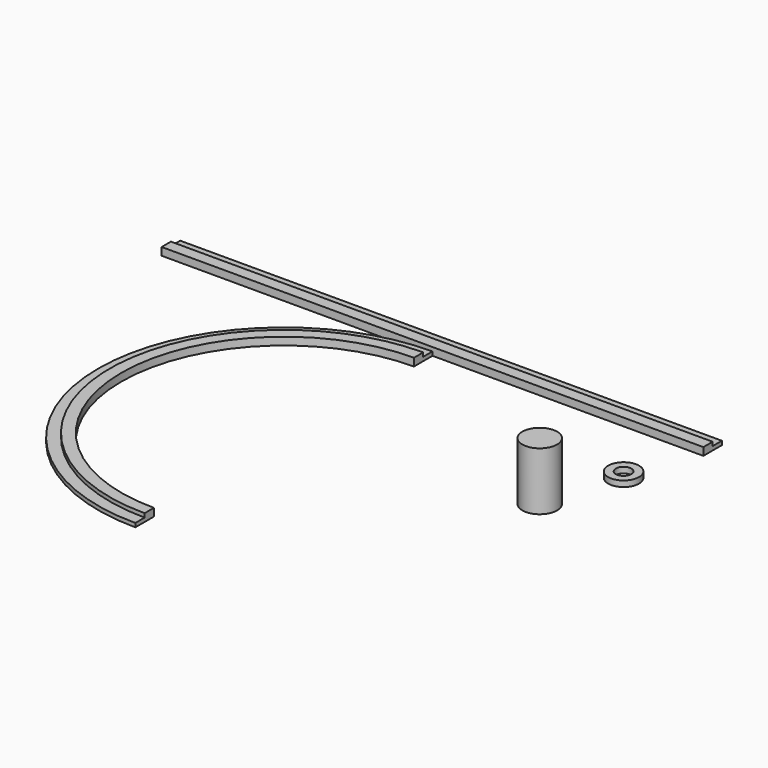
from build123d import *

# Parameters (mm, degrees)
F1_DEPTH = 2
F0_W     = 140
F0_H     = 3
F2_DEPTH = 1
F0_R     = 4
F0_R_2   = 2
F3_DEPTH = 1.5
F0_R_3   = 4.5
F0_R_4   = 3.5
F0_R_5   = 1.5
F4_DEPTH = 15
F5_DEPTH = 10
F6_DEPTH = 4


with BuildPart() as f1:
    # F0 (on Top) → F1 (new body)
    with BuildSketch(Plane.XY):
        Polygon((-70, 3), (-70, 0), (0, 0), (70, 0), (70, 3), align=None)
    extrude(amount=F1_DEPTH)



with BuildPart() as f1b:
    # F0 (on Top) → F1, piece 2 (new body)
    with BuildSketch(Plane.XY):
        with BuildLine():
            Line((0, -6), (0, -3))
            ThreePointArc((0, -3), (-45, -48), (0, -93))
            Line((0, -93), (0, -90))
            ThreePointArc((0, -90), (-42, -48), (0, -6))
        make_face()
    extrude(amount=F1_DEPTH)


with BuildPart() as f1_1:
    add(f1.part)

    add(f1b.part)  # F2 merges F1b
    # F0 (on Top) → F2 (join)
    with BuildSketch(Plane.XY):
        with Locations((0, 4.5)):
            Rectangle(F0_W, F0_H)
        with BuildLine():
            Line((0, -3), (0, 0))
            ThreePointArc((0, 0), (-48, -48), (0, -96))
            Line((0, -96), (0, -93))
            ThreePointArc((0, -93), (-45, -48), (0, -3))
        make_face()
    extrude(amount=F2_DEPTH)


with BuildPart() as f3:
    # F0 (on Top) → F3 (new body)
    with BuildSketch(Plane.XY):
        with Locations((63.45012784, -17.581872642)):
            Circle(F0_R)
        with Locations((63.45012784, -17.581872642)):
            Circle(F0_R_2, mode=Mode.SUBTRACT)
    extrude(amount=F3_DEPTH)


with BuildPart() as f4:
    # F0 (on Top) → F4 (new body)
    with BuildSketch(Plane.XY):
        with Locations((57.3580823839, -37.0480269194)):
            Circle(F0_R_3)
        with Locations((57.3580823839, -37.0480269194)):
            Circle(F0_R_4, mode=Mode.SUBTRACT)
        with Locations((57.3580823839, -37.0480269194)):
            Circle(F0_R_4)
        with Locations((57.3580823839, -37.0480269194)):
            Circle(F0_R_5, mode=Mode.SUBTRACT)
        with Locations((57.3580823839, -37.0480269194)):
            Circle(F0_R_5)
    extrude(amount=F4_DEPTH)

    # F0 (on Top) → F5 (cut)
    with BuildSketch(Plane.XY):
        with Locations((57.3580823839, -37.0480269194)):
            Circle(F0_R_5)
    extrude(amount=F5_DEPTH, mode=Mode.SUBTRACT)

    # F0 (on Top) → F6 (cut)
    with BuildSketch(Plane.XY):
        with Locations((57.3580823839, -37.0480269194)):
            Circle(F0_R_4)
        with Locations((57.3580823839, -37.0480269194)):
            Circle(F0_R_5, mode=Mode.SUBTRACT)
    extrude(amount=F6_DEPTH, mode=Mode.SUBTRACT)


solid = Compound([f1_1.part, f3.part, f4.part])
